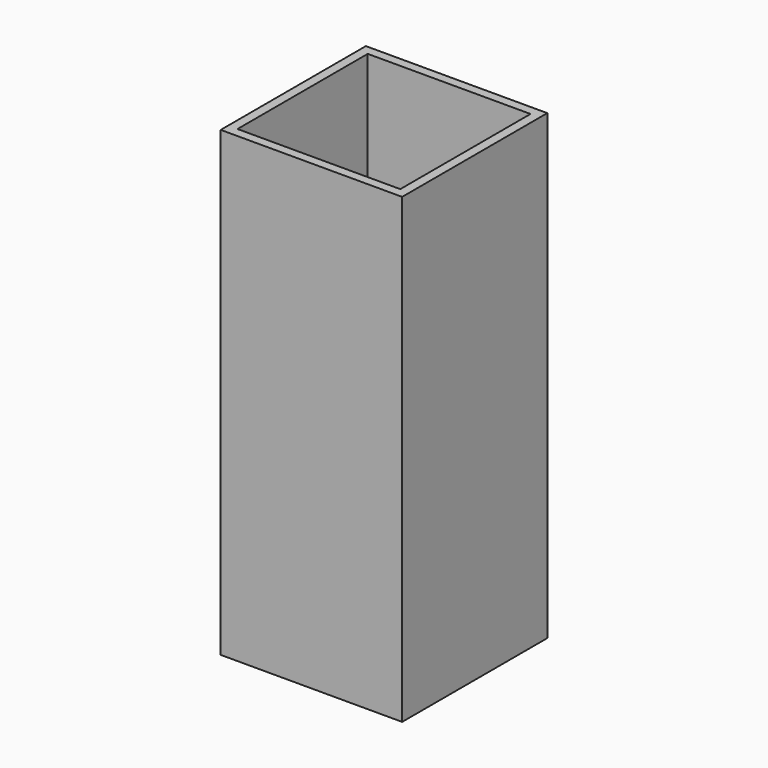
from build123d import *

# Parameters (mm, degrees)
F0_W     = 38.862
F0_H     = 38.862
F0_W_2   = 34.862
F0_H_2   = 34.862
F1_DEPTH = 97
F2_DEPTH = 2


with BuildPart() as f1:
    # F0 (on Top) → F1 (new body)
    with BuildSketch(Plane.XY):
        Rectangle(F0_W, F0_H)
        Rectangle(F0_W_2, F0_H_2, mode=Mode.SUBTRACT)
    extrude(amount=F1_DEPTH)

    # F0 (on Top) → F2 (join)
    with BuildSketch(Plane.XY):
        Rectangle(F0_W, F0_H)
        Rectangle(F0_W_2, F0_H_2, mode=Mode.SUBTRACT)
        Rectangle(F0_W_2, F0_H_2)
    extrude(amount=-F2_DEPTH)


solid = f1.part
